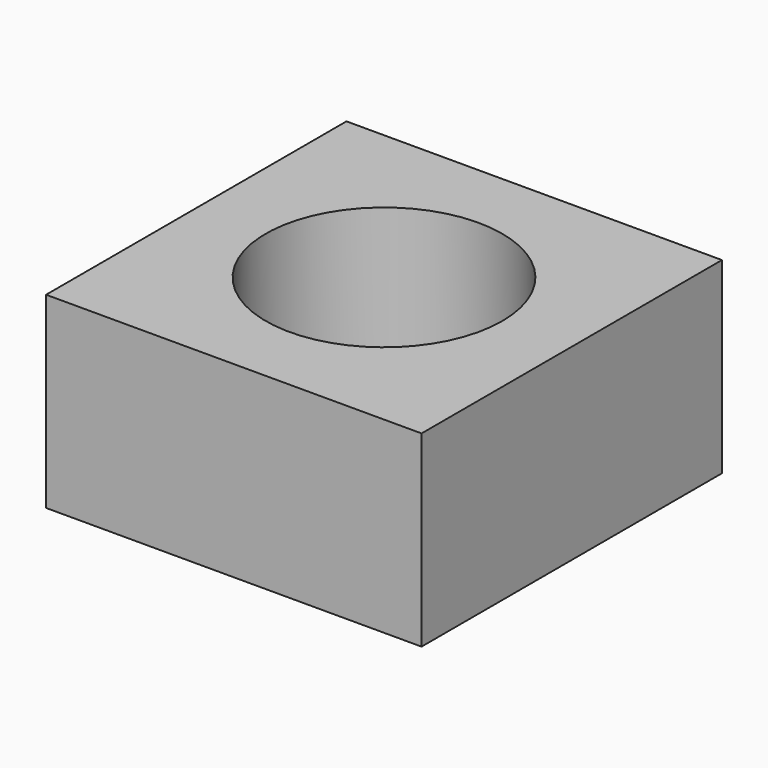
from build123d import *

# Parameters (mm, degrees)
CYLINDER038_R     = 4
CYLINDER038_DEPTH = 10
BOX017_W          = 12.7
BOX017_H          = 12.7
BOX017_DEPTH      = 6.35


with BuildPart() as cylinder038:
    # Cylinder038 → Cylinder038 (new body)
    with BuildSketch(Plane(origin=(6.35, 6.35, 0), x_dir=(1, 0, 0), z_dir=(0, 0, 1))):
        Circle(CYLINDER038_R)
    extrude(amount=CYLINDER038_DEPTH)


with BuildPart() as m8_nut004:
    # Box017 → Box017 (new body)
    with BuildSketch(Plane.XY):
        with Locations((6.35, 6.35)):
            Rectangle(BOX017_W, BOX017_H)
    extrude(amount=BOX017_DEPTH)

    # Cut015: cut Cylinder038
    add(cylinder038.part, mode=Mode.SUBTRACT)


with BuildPart() as m8_nut004_1:
    # Cut015 placement: moved
    add(m8_nut004.part.moved(Location((-6.35, -6.35, 908.05))))


solid = m8_nut004_1.part
